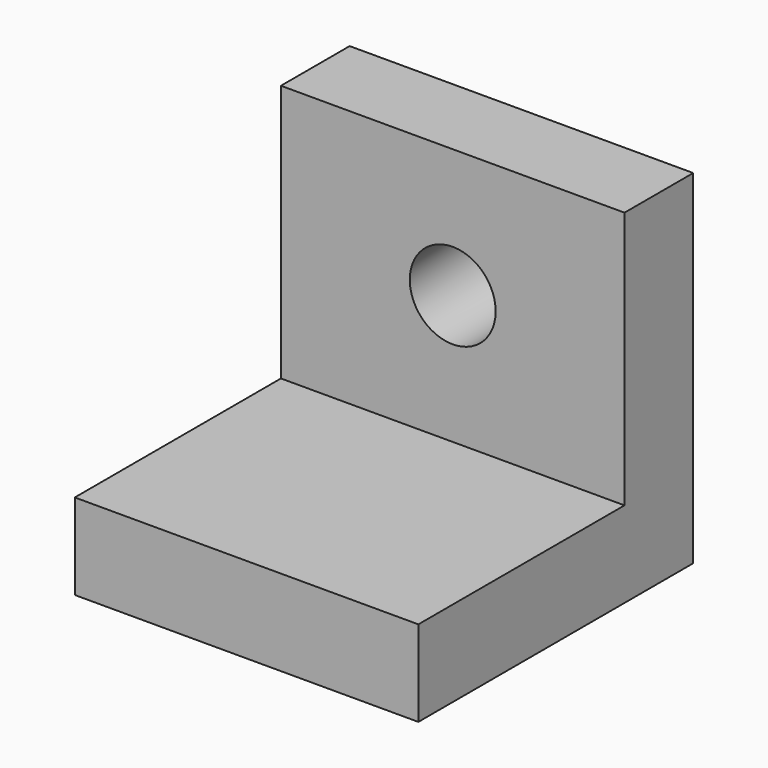
from build123d import *

# Parameters (mm, degrees)
F0_W     = 50.8
F0_H     = 50.8
F1_DEPTH = 12.7
F2_W     = 50.8
F2_H     = 12.7
F3_DEPTH = 38.1
F5_DEPTH = 55.88


with BuildPart() as f1:
    # F0 (on Top) → F1 (new body)
    with BuildSketch(Plane.XY):
        with Locations((25.4, -25.4)):
            Rectangle(F0_W, F0_H)
    extrude(amount=F1_DEPTH)

    # F2 (on face) → F3 (join)
    with BuildSketch(Plane.XY.offset(12.7)):
        with Locations((25.4, -6.35)):
            Rectangle(F2_W, F2_H)
    extrude(amount=F3_DEPTH)

    # F4 (on face) → F5 (cut)
    with BuildSketch(Plane.XZ.offset(12.7)):
        with BuildLine():
            ThreePointArc((25.4, 38.1), (20.909872, 27.259872), (31.75, 31.75))
            ThreePointArc((31.75, 31.75), (29.890128, 36.240128), (25.4, 38.1))
        make_face()
    extrude(amount=-F5_DEPTH, mode=Mode.SUBTRACT)


solid = f1.part
